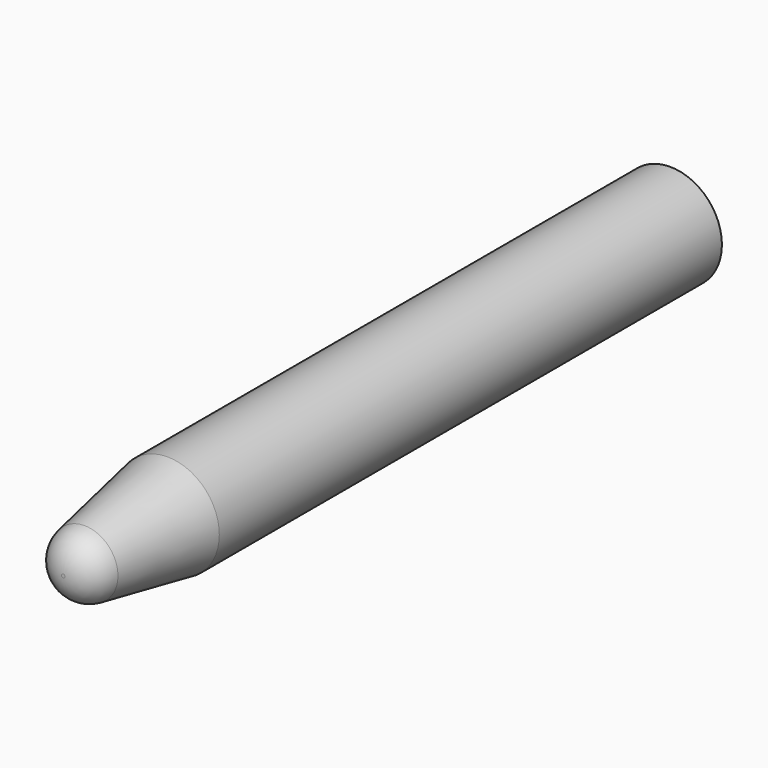
from build123d import *

# Parameters (mm, degrees)
F0_R     = 2.25
F1_DEPTH = 33
F2_SIZE2 = 1
F2_SIZE  = 5.6712818196
F3_R     = 1.4


with BuildPart() as f1:
    # F0 (on Front) → F1 (new body)
    with BuildSketch(Plane.XZ):
        Circle(F0_R)
    extrude(amount=F1_DEPTH)

    # F2
    f2_edges = [f1.edges().sort_by_distance(p)[0] for p in [
        (-2.25, -33, 0),
    ]]
    f2_side = f1.faces().sort_by_distance((-2.25, -16.5, 0))[0]
    chamfer(f2_edges, length=F2_SIZE, length2=F2_SIZE2, reference=f2_side)

    # F3
    f3_edges = [f1.edges().sort_by_distance(p)[0] for p in [
        (-1.25, -33, 0),
    ]]
    fillet(f3_edges, radius=F3_R)


solid = f1.part
